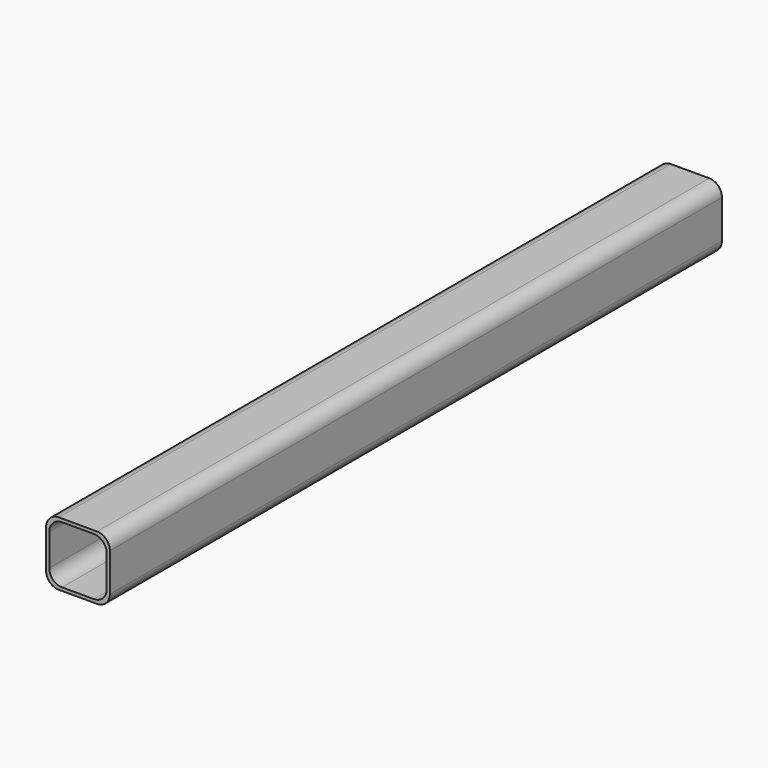
from build123d import *

# Parameters (mm, degrees)
F0_W     = 25.4
F0_H     = 25.4
F0_W_2   = 22.86
F0_H_2   = 22.86
F1_DEPTH = 304.8
F2_R     = 5.08


with BuildPart() as f1:
    # F0 (on Front) → F1 (new body)
    with BuildSketch(Plane.XZ):
        Rectangle(F0_W, F0_H)
        Rectangle(F0_W_2, F0_H_2, mode=Mode.SUBTRACT)
    extrude(amount=F1_DEPTH)

    # F2
    f2_edges = [f1.edges().sort_by_distance(p)[0] for p in [
        (-11.43, -152.4, 11.43),
        (-12.7, -152.4, 12.7),
        (11.43, -152.4, 11.43),
        (-11.43, -152.4, -11.43),
        (11.43, -152.4, -11.43),
        (-12.7, -152.4, -12.7),
        (12.7, -152.4, -12.7),
        (12.7, -152.4, 12.7),
    ]]
    fillet(f2_edges, radius=F2_R)


solid = f1.part
